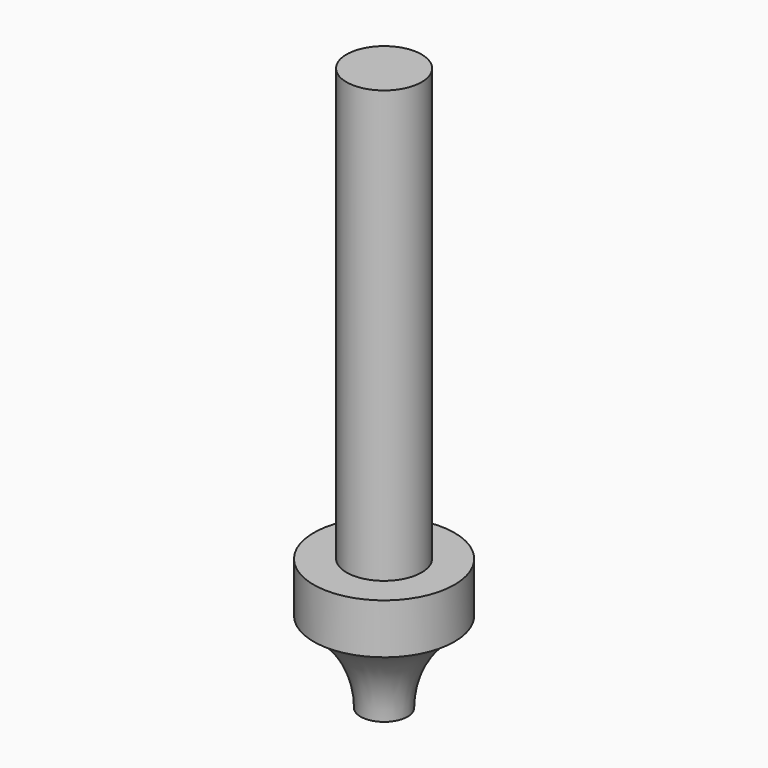
from build123d import *


with BuildPart() as part:
    # Sketch → Revolution (revolve)
    with BuildSketch(Plane.XZ):
        with BuildLine():
            Line((0, 60), (0, 0))
            Line((0, 0), (2.501, 0))
            ThreePointArc((7.5, 8.659677), (3.840457, 4.9995), (2.501, 0))
            Line((7.5, 14), (7.5, 8.659677))
            Line((4, 14.01), (7.5, 14))
            Line((4, 60), (4, 14.01))
            Line((4, 60), (0, 60))
        make_face()
    revolve(axis=Axis((0, 0, 0), (0, 0, 1)))


solid = part.part
